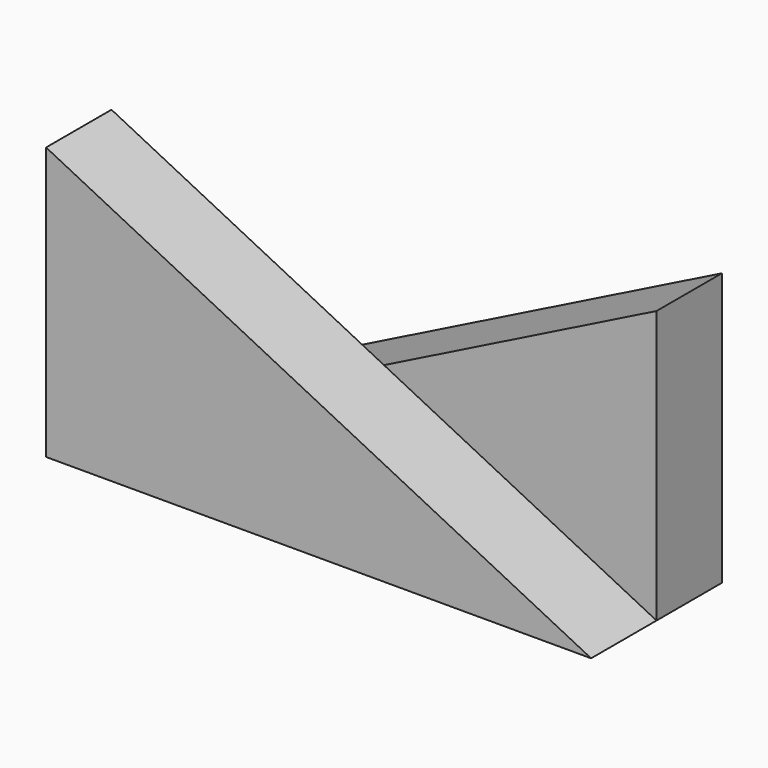
from build123d import *

# Parameters (mm, degrees)
F1_DEPTH = 19.05
F2_DEPTH = 19.05


with BuildPart() as f1:
    # F0 (on Front) → F1 (new body)
    with BuildSketch(Plane.XZ):
        Polygon((-63.5, 31.75), (-63.5, -31.75), (0, 0), align=None)
        Polygon((-63.5, -31.75), (63.5, -31.75), (0, 0), align=None)
    extrude(amount=F1_DEPTH)

    # F0 (on Front) → F2 (join)
    with BuildSketch(Plane.XZ):
        Polygon((0, 0), (63.5, -31.75), (63.5, 31.75), align=None)
        Polygon((-63.5, -31.75), (63.5, -31.75), (0, 0), align=None)
    extrude(amount=-F2_DEPTH)


solid = f1.part
